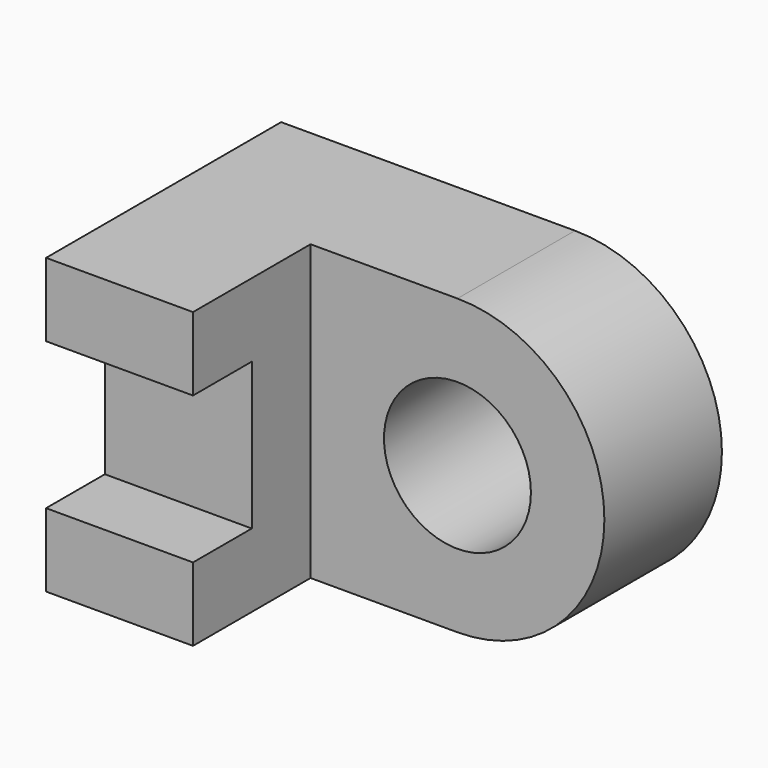
from build123d import *

# Parameters (mm, degrees)
F1_DEPTH = 25.4
F2_W     = 12.7
F2_H     = 12.7
F3_DEPTH = 6.35
F5_DEPTH = 12.7
F6_R     = 6.35
F7_DEPTH = 12.7


with BuildPart() as f1:
    # F0 (on Top) → F1 (new body)
    with BuildSketch(Plane.XY):
        Polygon((0, 25.4), (0, 0), (12.7, 0), (12.7, 12.7), (25.4, 12.7), (25.4, 25.4), align=None)
    extrude(amount=F1_DEPTH)

    # F2 (on face) → F3 (cut)
    with BuildSketch(Plane.XZ):
        with Locations((6.35, 12.7)):
            Rectangle(F2_W, F2_H)
    extrude(amount=-F3_DEPTH, mode=Mode.SUBTRACT)

    # F4 (on face) → F5 (join)
    with BuildSketch(Plane(origin=(0, 25.4, 0), x_dir=(-1, 0, 0), z_dir=(0, 1, 0))):
        with BuildLine():
            Line((-25.4, 0), (-25.4, 25.4))
            ThreePointArc((-25.4, 25.4), (-38.1, 12.7), (-25.4, 0))
        make_face()
    extrude(amount=-F5_DEPTH)

    # F6 (on face) → F7 (cut)
    with BuildSketch(Plane.XZ.offset(-12.7)):
        with Locations((25.4, 12.7)):
            Circle(F6_R)
    extrude(amount=-F7_DEPTH, mode=Mode.SUBTRACT)


solid = f1.part
